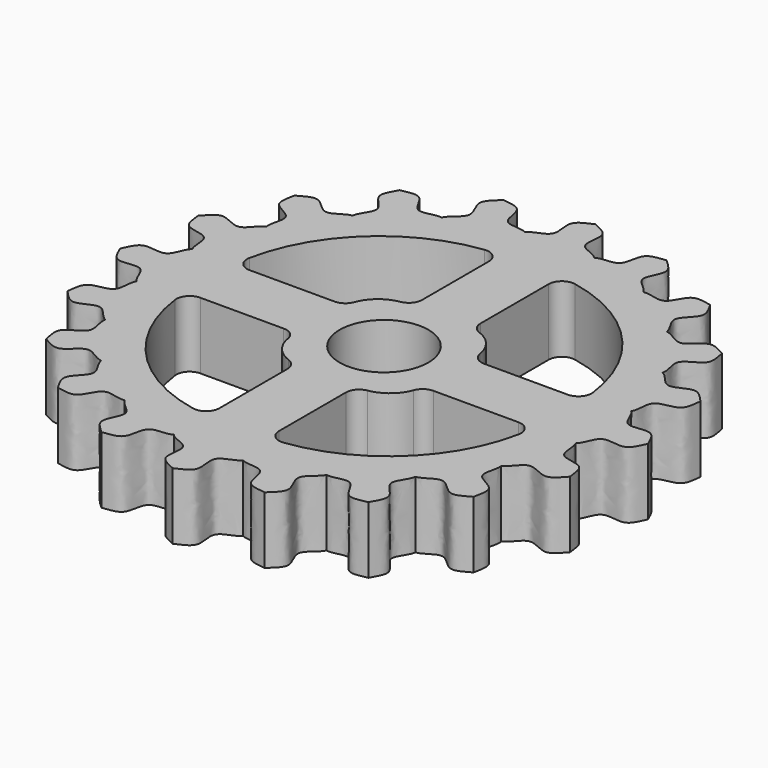
from build123d import *

# Parameters (mm, degrees)
F0_R     = 10
F1_DEPTH = 15
F3_COUNT = 20
F2_R     = 10
F4_DEPTH = 25


with BuildPart() as f1:
    # F0 (on Top) → F1 (new body)
    with BuildSketch(Plane.XY):
        with BuildLine():
            ThreePointArc((-7.853981634, 49.3792970028), (-32.4599824268, -38.0309024459), (50, 0))
            ThreePointArc((50, 0), (38.0309024459, 32.4599824268), (7.853981634, 49.3792970028))
            ThreePointArc((7.853981634, 49.3792970028), (0, 50), (-7.853981634, 49.3792970028))
        make_face()
        Circle(F0_R, mode=Mode.SUBTRACT)
        with BuildLine():
            ThreePointArc((-7.853981634, 49.3792970028), (0, 50), (7.853981634, 49.3792970028))
            add(Edge.make_bspline(
                [(0, 59.5), (1.3463467404, 58.8064321697), (4.919389946, 57.7390430845), (1.9229049883, 50.973838021), (6.9650217798, 50.5071782566), (7.853981634, 49.3792970028)],
                knots=[0, 0, 0, 0, 0.3179986861, 0.6604304579, 1, 1, 1, 1], degree=3))
            add(Edge.make_bspline(
                [(0, 59.5), (-1.3463467404, 58.8064321697), (-4.919389946, 57.7390430845), (-1.9229049883, 50.973838021), (-6.9650217798, 50.5071782566), (-7.853981634, 49.3792970028)],
                knots=[0, 0, 0, 0, 0.3179986861, 0.6604304579, 1, 1, 1, 1], degree=3))
        make_face()
    extrude(amount=F1_DEPTH)

    # F3: F1 ×20 about axis
    f3_axis = Axis((0, 0, 15), (0, 0, 1))


with BuildPart() as f1_1:
    add(f1.part)
    for i in range(1, F3_COUNT):
        add(f1.part.rotate(f3_axis, i * 360 / F3_COUNT))

    # F2 (on face) → F4 (cut)
    with BuildSketch(Plane.XY.offset(15)):
        with BuildLine():
            ThreePointArc((11.4268359119, 39.4806705853), (8.9407065564, 38.85534771), (7.8453952447, 36.5375554413))
            Line((7.8453952447, 36.5375554413), (7.8453952447, 17.3780760497))
            ThreePointArc((7.8453952447, 17.3780760497), (8.3894892377, 15.655135051), (9.8244123681, 14.5571552841))
            ThreePointArc((9.8244123681, 14.5571552841), (13.2655854059, 12.134026373), (15.0001331005, 8.2993725567))
            ThreePointArc((15.0001331005, 8.2993725567), (16.0158371777, 6.4903790241), (17.9625057146, 5.7730269618))
            Line((17.9625057146, 5.7730269618), (36.7587669951, 5.7730269618))
            ThreePointArc((36.7587669951, 5.7730269618), (39.0095354027, 6.7895851111), (39.7349458324, 9.1503325783))
            ThreePointArc((39.7349458324, 9.1503325783), (30.4790658389, 28.8870983552), (11.4268359119, 39.4806705853))
        make_face()
        with BuildLine():
            ThreePointArc((-5.7730269618, 36.7587669951), (-6.7895851111, 39.0095354027), (-9.1503325783, 39.7349458324))
            ThreePointArc((-9.1503325783, 39.7349458324), (-28.8870983552, 30.4790658389), (-39.4806705853, 11.4268359119))
            ThreePointArc((-39.4806705853, 11.4268359119), (-38.85534771, 8.9407065564), (-36.5375554413, 7.8453952447))
            Line((-36.5375554413, 7.8453952447), (-17.3780760497, 7.8453952447))
            ThreePointArc((-17.3780760497, 7.8453952447), (-15.655135051, 8.3894892377), (-14.5571552841, 9.8244123681))
            ThreePointArc((-14.5571552841, 9.8244123681), (-12.134026373, 13.2655854059), (-8.2993725567, 15.0001331005))
            ThreePointArc((-8.2993725567, 15.0001331005), (-6.4903790241, 16.0158371777), (-5.7730269618, 17.9625057146))
            Line((-5.7730269618, 17.9625057146), (-5.7730269618, 36.7587669951))
        make_face()
        with BuildLine():
            ThreePointArc((-36.7587669951, -5.7730269618), (-39.0095354027, -6.7895851111), (-39.7349458324, -9.1503325783))
            ThreePointArc((-39.7349458324, -9.1503325783), (-30.4790658389, -28.8870983552), (-11.4268359119, -39.4806705853))
            ThreePointArc((-11.4268359119, -39.4806705853), (-8.9407065564, -38.85534771), (-7.8453952447, -36.5375554413))
            Line((-7.8453952447, -36.5375554413), (-7.8453952447, -17.3780760497))
            ThreePointArc((-7.8453952447, -17.3780760497), (-8.3894892377, -15.655135051), (-9.8244123681, -14.5571552841))
            ThreePointArc((-9.8244123681, -14.5571552841), (-13.2655854059, -12.134026373), (-15.0001331005, -8.2993725567))
            ThreePointArc((-15.0001331005, -8.2993725567), (-16.0158371777, -6.4903790241), (-17.9625057146, -5.7730269618))
            Line((-17.9625057146, -5.7730269618), (-36.7587669951, -5.7730269618))
        make_face()
        with BuildLine():
            ThreePointArc((5.7730269618, -36.7587669951), (6.7895851111, -39.0095354027), (9.1503325783, -39.7349458324))
            ThreePointArc((9.1503325783, -39.7349458324), (28.8870983552, -30.4790658389), (39.4806705853, -11.4268359119))
            ThreePointArc((39.4806705853, -11.4268359119), (38.85534771, -8.9407065564), (36.5375554413, -7.8453952447))
            Line((36.5375554413, -7.8453952447), (17.3780760497, -7.8453952447))
            ThreePointArc((17.3780760497, -7.8453952447), (15.655135051, -8.3894892377), (14.5571552841, -9.8244123681))
            ThreePointArc((14.5571552841, -9.8244123681), (12.134026373, -13.2655854059), (8.2993725567, -15.0001331005))
            ThreePointArc((8.2993725567, -15.0001331005), (6.4903790241, -16.0158371777), (5.7730269618, -17.9625057146))
            Line((5.7730269618, -17.9625057146), (5.7730269618, -36.7587669951))
        make_face()
        Circle(F2_R)
    extrude(amount=-F4_DEPTH, mode=Mode.SUBTRACT)


solid = f1_1.part
